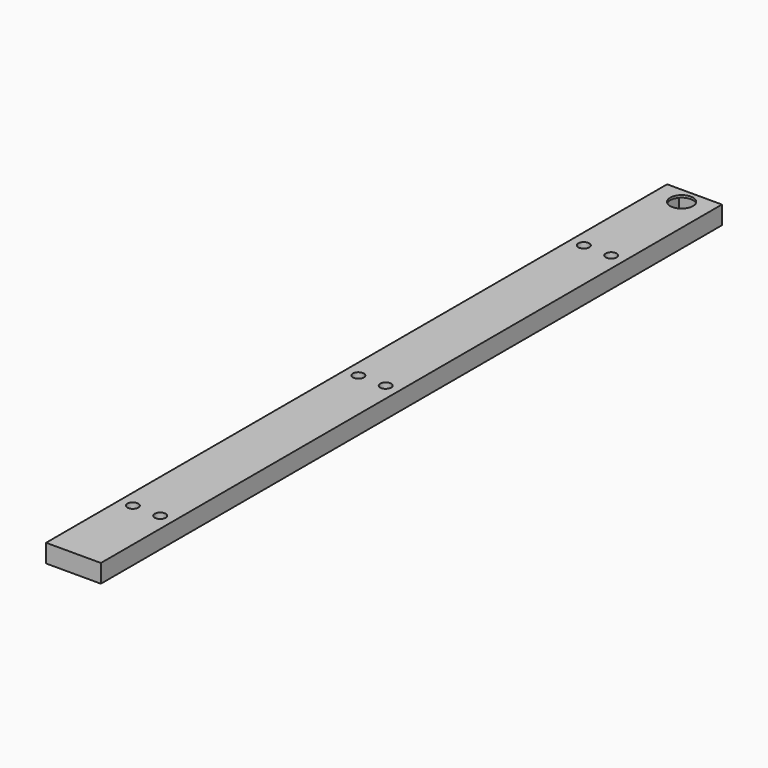
from build123d import *

# Parameters (mm, degrees)
SKETCH_W     = 12
SKETCH_H     = 170
SKETCH_W_2   = 6.05
SKETCH_H_2   = 6.05
PAD_DEPTH    = 4
SKETCH001_W  = 6.05
SKETCH001_H  = 6.05
PAD001_DEPTH = 0.5
SKETCH002_R  = 2.5
POCKET_DEPTH = 0.5
SKETCH003_R  = 1.2
HOLE_DEPTH   = 25


with BuildPart() as part:
    # Sketch → Pad (new body)
    with BuildSketch(Plane.XY):
        Rectangle(SKETCH_W, SKETCH_H)
        with Locations((0, 81.475)):
            Rectangle(SKETCH_W_2, SKETCH_H_2, mode=Mode.SUBTRACT)
    extrude(amount=PAD_DEPTH)

    # Sketch001 (on Face10 of Pad) → Pad001 (join)
    with BuildSketch(Plane.XY.offset(4)):
        with Locations((0, 81.475)):
            Rectangle(SKETCH001_W, SKETCH001_H)
    extrude(amount=-PAD001_DEPTH)

    # Sketch002 (on Face11 of Pad001) → Pocket (cut)
    with BuildSketch(Plane.XY.offset(4)):
        with Locations((0, 81.475)):
            Circle(SKETCH002_R)
    extrude(amount=-POCKET_DEPTH, mode=Mode.SUBTRACT)

    # Sketch003 (on Face5 of Pocket) → Hole (cut)
    with BuildSketch(Plane.XY.offset(4)):
        with Locations((3, 58.45)):
            Circle(SKETCH003_R)
        with Locations((-3, 58.45)):
            Circle(SKETCH003_R)
        with Locations((3, -3.275)):
            Circle(SKETCH003_R)
        with Locations((-3, -3.275)):
            Circle(SKETCH003_R)
        with Locations((3, -65)):
            Circle(SKETCH003_R)
        with Locations((-3, -65)):
            Circle(SKETCH003_R)
    extrude(amount=-HOLE_DEPTH, mode=Mode.SUBTRACT)


solid = part.part
